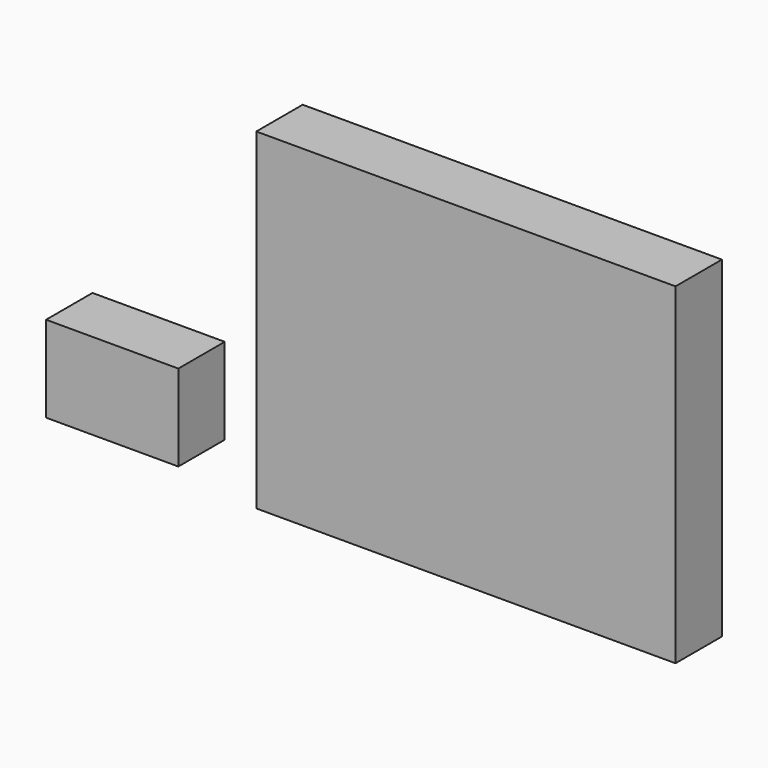
from build123d import *

# Parameters (mm, degrees)
F0_W     = 183.615275
F0_H     = 145.338606
F1_DEPTH = 25.4
F2_W     = 57.932071
F2_H     = 37.771889
F3_DEPTH = 25.4


with BuildPart() as f1:
    # F0 (on Front) → F1 (new body)
    with BuildSketch(Plane.XZ):
        with Locations((-15.710403, 23.203472)):
            Rectangle(F0_W, F0_H)
    extrude(amount=F1_DEPTH)


with BuildPart() as f3:
    # F2 (on face) → F3 (new body)
    with BuildSketch(Plane.XZ.offset(25.4)):
        with Locations((-150.294471, -8.593533)):
            Rectangle(F2_W, F2_H)
    extrude(amount=F3_DEPTH)


solid = Compound([f1.part, f3.part])
